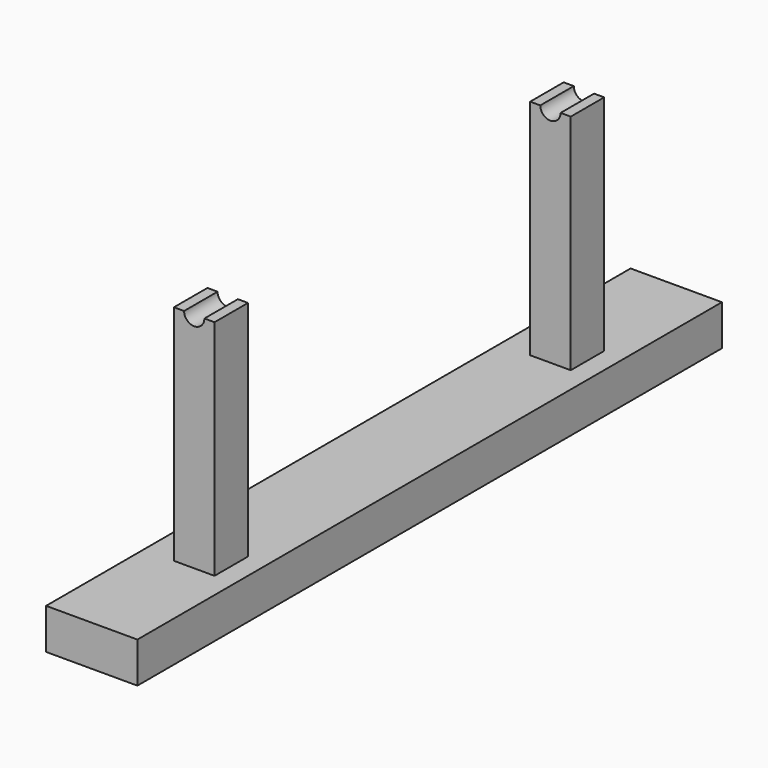
from build123d import *

# Parameters (mm, degrees)
F0_W           = 457.2
F0_H           = 25.4
F1_DEPTH       = 203.2
F2_W           = 26.1833593249
F2_H           = 139.7
F3_DEPTH       = 38.1
F4_W           = 12.7
F4_H           = 139.7
F5_DEPTH       = 381.001
F6_W           = 31.75
F6_H           = 152.4
F7_DEPTH       = 38.1
F9_DEPTH       = 196.85
F9_DEPTH_BACK  = 6.35
F11_DEPTH      = 50.8
F12_R          = 22.225
F13_DEPTH      = 12.7
F13_DEPTH_BACK = 139.7
F14_R          = 19.05
F15_DEPTH      = 6.35
F16_R          = 19.05
F17_DEPTH      = 6.35
F19_R          = 12.7
F20_DEPTH      = 190.5
F20_DEPTH_BACK = 38.1
F22_DEPTH      = 114.3
F24_DEPTH      = 209.55
F25_W          = 9.525
F25_H          = 50.8
F26_DEPTH      = 209.55
F28_DEPTH      = 12.7
F28_DEPTH_BACK = 63.5
F29_R          = 6.35
F30_DEPTH      = 406.4
F31_W          = 177.8
F31_H          = 271.1930572987
F32_DEPTH      = 457.201


with BuildPart() as f1:
    # F0 (on Right) → F1 (new body)
    with BuildSketch(Plane.YZ):
        with Locations((228.6, 12.7)):
            Rectangle(F0_W, F0_H)
    extrude(amount=-F1_DEPTH)

    # F6 (on face) → F7 (join)
    with BuildSketch(Plane(origin=(-203.2, 0, 0), x_dir=(0, -1, 0), z_dir=(-1, 0, 0))):
        with Locations((-315.4549715519, 101.6)):
            Rectangle(F6_W, F6_H)
        with Locations((-156.7049715519, 101.6)):
            Rectangle(F6_W, F6_H)
    extrude(amount=-F7_DEPTH)

    # F8 (on face) → F9 (join, two sides)
    with BuildSketch(Plane(origin=(0, 331.3299715519, 0), x_dir=(-1, 0, 0), z_dir=(0, 1, 0))) as f9_sk:
        Polygon((198.8146968374, 190.5), (169.4853031626, 190.5), (154.8206063252, 165.1), (169.4853031626, 139.7), (198.8146968374, 139.7), (213.4793936748, 165.1), align=None)
    extrude(amount=-F9_DEPTH)
    extrude(f9_sk.sketch, amount=F9_DEPTH_BACK)

    # F10 (on face) → F11 (cut)
    with BuildSketch(Plane(origin=(-203.2, 0, 0), x_dir=(0, -1, 0), z_dir=(-1, 0, 0))):
        Polygon((-299.5799715519, 190.5), (-299.5799715519, 139.7), (-172.5799715519, 139.7), (-173.685669899, 190.5), align=None)
    extrude(amount=-F11_DEPTH, mode=Mode.SUBTRACT)

    # F12 (on face) → F13 (cut, two sides)
    with BuildSketch(Plane.XZ.offset(-299.5799715519)) as f13_sk:
        with Locations((-184.15, 165.1)):
            Circle(F12_R)
    extrude(amount=-F13_DEPTH, mode=Mode.SUBTRACT)
    extrude(f13_sk.sketch, amount=F13_DEPTH_BACK, mode=Mode.SUBTRACT)

    # F14 (on face) → F15 (cut)
    with BuildSketch(Plane.XZ.offset(-134.4799715519)):
        with Locations((-184.15, 165.1)):
            Circle(F14_R)
    extrude(amount=-F15_DEPTH, mode=Mode.SUBTRACT)

    # F16 (on face) → F17 (cut)
    with BuildSketch(Plane(origin=(0, 337.6799715519, 0), x_dir=(-1, 0, 0), z_dir=(0, 1, 0))):
        with Locations((184.15, 165.1)):
            Circle(F16_R)
    extrude(amount=-F17_DEPTH, mode=Mode.SUBTRACT)


with BuildPart() as f3:
    # F2 (on face) → F3 (new body)
    with BuildSketch(Plane.YZ):
        with Locations((89.2916796625, 95.25)):
            Rectangle(F2_W, F2_H)
    extrude(amount=-F3_DEPTH)


with BuildPart() as f3b:
    # F2 (on face) → F3, piece 2 (new body)
    with BuildSketch(Plane.YZ):
        with Locations((367.9083203375, 95.25)):
            Rectangle(F2_W, F2_H)
    extrude(amount=-F3_DEPTH)


with BuildPart() as f5_tool:
    # F4 (on face) → F5 (new body, through all)
    with BuildSketch(Plane.XZ.offset(-76.2)):
        with Locations((-6.35, 95.25)):
            Rectangle(F4_W, F4_H)
    extrude(amount=-F5_DEPTH)


with BuildPart() as f3_1:
    add(f3.part)

    # F5: cut by f5_tool
    add(f5_tool.part, mode=Mode.SUBTRACT)


with BuildPart() as f3b_1:
    add(f3b.part)

    # F5: cut by f5_tool
    add(f5_tool.part, mode=Mode.SUBTRACT)


with BuildPart() as f20:
    # F19 (on face) → F20 (new body, two sides)
    with BuildSketch(Plane(origin=(0, 159.8799715519, 0), x_dir=(-1, 0, 0), z_dir=(0, 1, 0))) as f20_sk:
        with Locations((184.15, 165.1)):
            Circle(F19_R)
    extrude(amount=F20_DEPTH)
    extrude(f20_sk.sketch, amount=-F20_DEPTH_BACK)


with BuildPart() as f22:
    # F21 (on offset) → F22 (new body)
    with BuildSketch(Plane.XZ.offset(-293.2299715519)):
        with BuildLine():
            ThreePointArc((-165.100001748, 165.0918391247), (-165.100000437, 165.0959195623), (-165.1, 165.1))
            ThreePointArc((-165.1, 165.1), (-170.6796158184, 178.5703841816), (-184.15, 184.15))
            Line((-184.15, 184.15), (-184.15, 165.1))
            Line((-184.15, 165.1), (-165.100001748, 165.0918391247))
        make_face()
        with BuildLine():
            ThreePointArc((-184.15, 184.15), (-170.6796158184, 178.5703841816), (-165.1, 165.1))
            ThreePointArc((-165.1, 165.1), (-165.100000437, 165.0959195623), (-165.100001748, 165.0918391247))
            Line((-165.100001748, 165.0918391247), (-62.6194391727, 165.0479372263))
            Line((-62.6194391727, 165.0479372263), (-62.6194391727, 266.6479372263))
            Line((-62.6194391727, 266.6479372263), (-75.3194391727, 266.6479372263))
            Line((-75.3194391727, 266.6479372263), (-184.15, 184.15))
        make_face()
        with BuildLine():
            Line((-184.15, 165.1), (-184.15, 184.15))
            ThreePointArc((-184.15, 184.15), (-203.199998252, 165.1081608753), (-184.166321749, 146.0500069921))
            Line((-184.166321749, 146.0500069921), (-184.15, 165.1))
        make_face()
        with BuildLine():
            Line((-62.6194391727, 165.0479372263), (-165.100001748, 165.0918391247))
            ThreePointArc((-165.100001748, 165.0918391247), (-170.6882745145, 151.6209626845), (-184.166321749, 146.0500069921))
            Line((-184.166321749, 146.0500069921), (-75.4064838395, 63.4588556836))
            Line((-75.4064838395, 63.4588556837), (-62.7064885009, 63.4479745176))
            Line((-62.7064885009, 63.4479745176), (-62.6194391727, 165.0479372263))
        make_face()
        with BuildLine():
            ThreePointArc((-184.166321749, 146.0500069921), (-170.6882745145, 151.6209626845), (-165.100001748, 165.0918391247))
            Line((-165.100001748, 165.0918391247), (-184.15, 165.1))
            Line((-184.15, 165.1), (-184.166321749, 146.0500069921))
        make_face()
    extrude(amount=F22_DEPTH)


with BuildPart() as f24_tool:
    # F23 (on face) → F24 (new body)
    with BuildSketch(Plane.XY.offset(266.6479372263)):
        Polygon((-72.1444391727, 197.9799715519), (-72.1444391727, 274.1799715519), (-176.837772131, 280.5299715519), (-176.837772131, 191.6299715519), align=None)
    extrude(amount=-F24_DEPTH)


with BuildPart() as f20_1:
    add(f20.part)

    # F24: cut by f24_tool
    add(f24_tool.part, mode=Mode.SUBTRACT)


with BuildPart() as f22_1:
    add(f22.part)

    # F24: cut by f24_tool
    add(f24_tool.part, mode=Mode.SUBTRACT)

    # F25 (on face) → F26 (cut)
    with BuildSketch(Plane.XY.offset(266.6479372263)):
        with Locations((-67.3819391727, 236.0799715519)):
            Rectangle(F25_W, F25_H)
    extrude(amount=-F26_DEPTH, mode=Mode.SUBTRACT)

    # F27 (on face) → F28 (cut, two sides)
    with BuildSketch(Plane.XZ.offset(-261.4799715519)) as f28_sk:
        Polygon((-72.1444391727, 241.2479372138), (-72.1444391727, 228.5479372138), (-62.6194391727, 235.7778057206), (-62.6194391727, 248.4778057206), align=None)
        Polygon((-62.6800000811, 94.3640369384), (-72.1444391727, 101.5479372138), (-72.1444391727, 88.8479372138), (-62.6908812512, 81.6640369384), align=None)
        Polygon((-62.6194391727, 184.0979372138), (-72.1444391727, 184.0979372138), (-72.1444391727, 145.9979372138), (-62.6357609278, 145.9979372138), align=None)
    extrude(amount=-F28_DEPTH, mode=Mode.SUBTRACT)
    extrude(f28_sk.sketch, amount=F28_DEPTH_BACK, mode=Mode.SUBTRACT)


with BuildPart() as f30_tool:
    # F29 (on face) → F30 (new body)
    with BuildSketch(Plane.XZ.offset(-76.2)):
        with Locations((-25.4, 165.1)):
            Circle(F29_R)
    extrude(amount=-F30_DEPTH)


with BuildPart() as f3_2:
    add(f3_1.part)

    # F30: cut by f30_tool
    add(f30_tool.part, mode=Mode.SUBTRACT)


with BuildPart() as f3b_2:
    add(f3b_1.part)

    # F30: cut by f30_tool
    add(f30_tool.part, mode=Mode.SUBTRACT)


with BuildPart() as f32_tool:
    # F31 (on face) → F32 (new body, through all)
    with BuildSketch(Plane.XZ):
        with Locations((-146.05, 135.5965286493)):
            Rectangle(F31_W, F31_H)
    extrude(amount=-F32_DEPTH)


with BuildPart() as f1_1:
    add(f1.part)

    # F32: cut by f32_tool
    add(f32_tool.part, mode=Mode.SUBTRACT)


with BuildPart() as f20_2:
    add(f20_1.part)

    # F32: cut by f32_tool
    add(f32_tool.part, mode=Mode.SUBTRACT)


with BuildPart() as f22_2:
    add(f22_1.part)

    # F32: cut by f32_tool
    add(f32_tool.part, mode=Mode.SUBTRACT)


solid = Compound([f3_2.part, f3b_2.part, f1_1.part])
